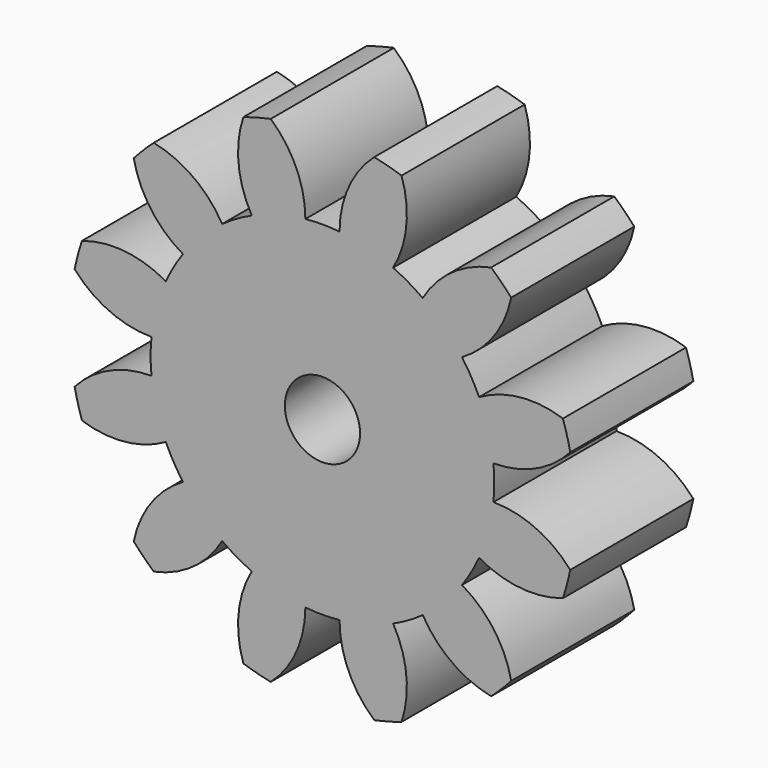
from build123d import *

# Parameters (mm, degrees)
F0_R     = 7.404
F1_DEPTH = 4.5
F3_DEPTH = 4.501
F4_COUNT = 12
F5_R     = 1.1
F6_DEPTH = 4.501


with BuildPart() as f1:
    # F0 (on Front) → F1 (new body)
    with BuildSketch(Plane.XZ):
        Circle(F0_R)
    extrude(amount=F1_DEPTH)

    # F2 (on face) → F3 (cut, through all)
    with BuildSketch(Plane.XZ.offset(4.5)):
        with BuildLine():
            ThreePointArc((-0.5000000047, 5.0005649926), (0, 5.0255), (0.5000000047, 5.0005649926))
            ThreePointArc((0.5000000047, 5.0005649926), (0.7650993145, 6.2330119666), (1.51312227, 7.2477359911))
            ThreePointArc((1.51312227, 7.2477359911), (0, 7.404), (-1.51312227, 7.2477359911))
            ThreePointArc((-1.51312227, 7.2477359911), (-0.7650993145, 6.2330119666), (-0.5000000047, 5.0005649926))
        make_face()
    f3 = extrude(amount=-F3_DEPTH, mode=Mode.SUBTRACT)

    # F4: F3 ×12 about axis
    f4_axis = Axis((0, 0, 0), (0, 1, 0))
    for i in range(1, F4_COUNT):
        add(f3.rotate(f4_axis, i * 360 / F4_COUNT), mode=Mode.SUBTRACT)

    # F5 (on face) → F6 (cut, through all)
    with BuildSketch(Plane.XZ.offset(4.5)):
        Circle(F5_R)
    extrude(amount=-F6_DEPTH, mode=Mode.SUBTRACT)


solid = f1.part
